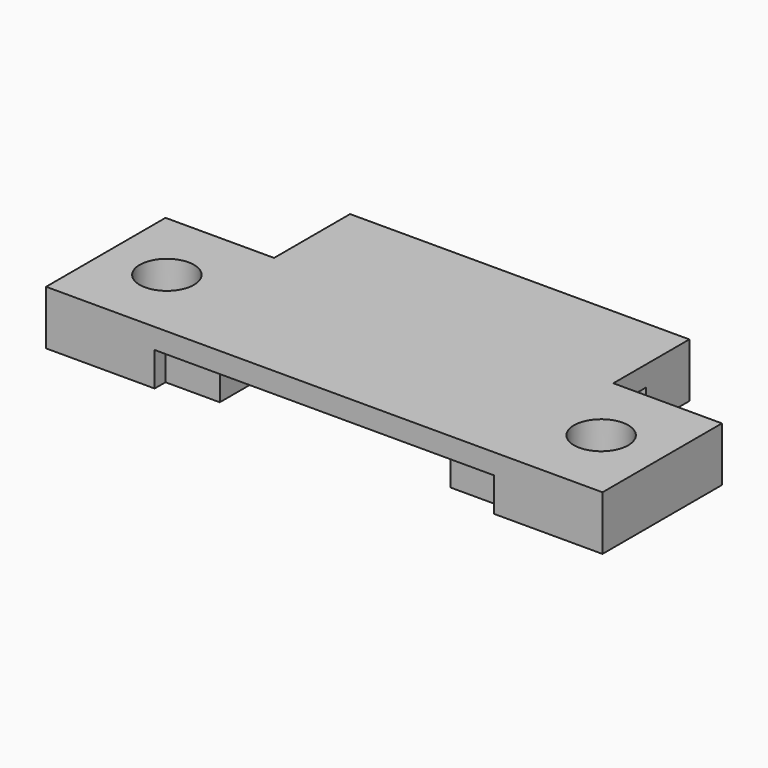
from build123d import *

# Parameters (mm, degrees)
CYLINDER397_R     = 2
CYLINDER397_DEPTH = 13
CYLINDER396_R     = 2
CYLINDER396_DEPTH = 13
BOX478_W          = 4
BOX478_H          = 4
BOX478_DEPTH      = 4
BOX486_W          = 25
BOX486_H          = 18
BOX486_DEPTH      = 1.5
BOX483_W          = 4
BOX483_H          = 4
BOX483_DEPTH      = 4
BOX485_W          = 4
BOX485_H          = 4
BOX485_DEPTH      = 4
BOX484_W          = 4
BOX484_H          = 4
BOX484_DEPTH      = 4
BOX504_W          = 8
BOX504_H          = 11
BOX504_DEPTH      = 4
BOX505_W          = 8
BOX505_H          = 11
BOX505_DEPTH      = 4


with BuildPart() as cylinder397:
    # Cylinder397 → Cylinder397 (new body)
    with BuildSketch(Plane(origin=(-48, -69, -5), x_dir=(1, 0, 0), z_dir=(0, 0, 1))):
        Circle(CYLINDER397_R)
    extrude(amount=CYLINDER397_DEPTH)


with BuildPart() as fusion394:
    # Cylinder396 → Cylinder396 (new body)
    with BuildSketch(Plane(origin=(-16, -69, -5), x_dir=(1, 0, 0), z_dir=(0, 0, 1))):
        Circle(CYLINDER396_R)
    extrude(amount=CYLINDER396_DEPTH)

    # Fusion394: union Cylinder397
    add(cylinder397.part)


with BuildPart() as fusion394_1:
    # Fusion394 placement: moved
    add(fusion394.part.moved(Location((-2.5, 50, 51))))


with BuildPart() as box478:
    # Box478 → Box478 (new body)
    with BuildSketch(Plane(origin=(-26, -10.5, 51), x_dir=(1, 0, 0), z_dir=(0, 0, 1))):
        with Locations((2, 2)):
            Rectangle(BOX478_W, BOX478_H)
    extrude(amount=BOX478_DEPTH)


with BuildPart() as box486:
    # Box486 → Box486 (new body)
    with BuildSketch(Plane(origin=(-47, -24.5, 53.5), x_dir=(1, 0, 0), z_dir=(0, 0, 1))):
        with Locations((12.5, 9)):
            Rectangle(BOX486_W, BOX486_H)
    extrude(amount=BOX486_DEPTH)


with BuildPart() as box483:
    # Box483 → Box483 (new body)
    with BuildSketch(Plane(origin=(-26, -23.5, 51), x_dir=(1, 0, 0), z_dir=(0, 0, 1))):
        with Locations((2, 2)):
            Rectangle(BOX483_W, BOX483_H)
    extrude(amount=BOX483_DEPTH)


with BuildPart() as box485:
    # Box485 → Box485 (new body)
    with BuildSketch(Plane(origin=(-47, -23.5, 51), x_dir=(1, 0, 0), z_dir=(0, 0, 1))):
        with Locations((2, 2)):
            Rectangle(BOX485_W, BOX485_H)
    extrude(amount=BOX485_DEPTH)


with BuildPart() as box484:
    # Box484 → Box484 (new body)
    with BuildSketch(Plane(origin=(-47, -10.5, 51), x_dir=(1, 0, 0), z_dir=(0, 0, 1))):
        with Locations((2, 2)):
            Rectangle(BOX484_W, BOX484_H)
    extrude(amount=BOX484_DEPTH)


with BuildPart() as box504:
    # Box504 → Box504 (new body)
    with BuildSketch(Plane(origin=(-55, -24.5, 51), x_dir=(1, 0, 0), z_dir=(0, 0, 1))):
        with Locations((4, 5.5)):
            Rectangle(BOX504_W, BOX504_H)
    extrude(amount=BOX504_DEPTH)


with BuildPart() as cut425:
    # Box505 → Box505 (new body)
    with BuildSketch(Plane(origin=(-22, -24.5, 51), x_dir=(1, 0, 0), z_dir=(0, 0, 1))):
        with Locations((4, 5.5)):
            Rectangle(BOX505_W, BOX505_H)
    extrude(amount=BOX505_DEPTH)

    # Fusion395: union Box478, Box486, Box483, Box485, Box484, Box504
    add(box478.part)
    add(box486.part)
    add(box483.part)
    add(box485.part)
    add(box484.part)
    add(box504.part)

    # Cut425: cut Fusion394
    add(fusion394_1.part, mode=Mode.SUBTRACT)


solid = cut425.part
